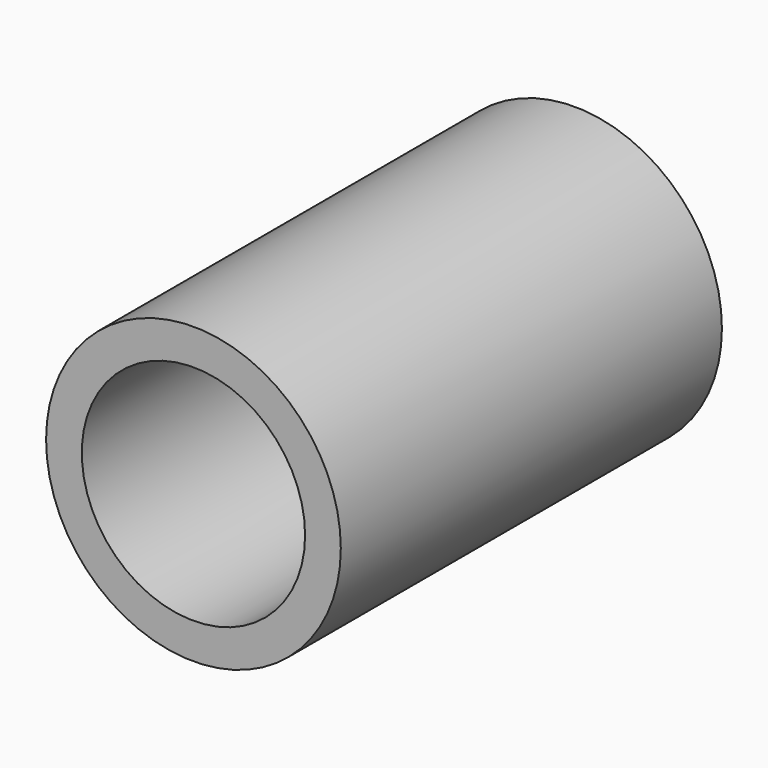
from build123d import *

# Parameters (mm, degrees)
F0_R     = 3.3
F0_R_2   = 2.5
F1_DEPTH = 10.668
F2_R     = 2.516903
F2_R_2   = 1.287502
F3_DEPTH = 5.61811


with BuildPart() as f1:
    # F0 (on Front) → F1 (new body)
    with BuildSketch(Plane.XZ):
        Circle(F0_R)
        Circle(F0_R_2, mode=Mode.SUBTRACT)
    extrude(amount=F1_DEPTH)

    # F2 (on Front) → F3 (join)
    with BuildSketch(Plane.XZ):
        Circle(F2_R)
        Circle(F2_R_2, mode=Mode.SUBTRACT)
    extrude(amount=F3_DEPTH)


solid = f1.part
